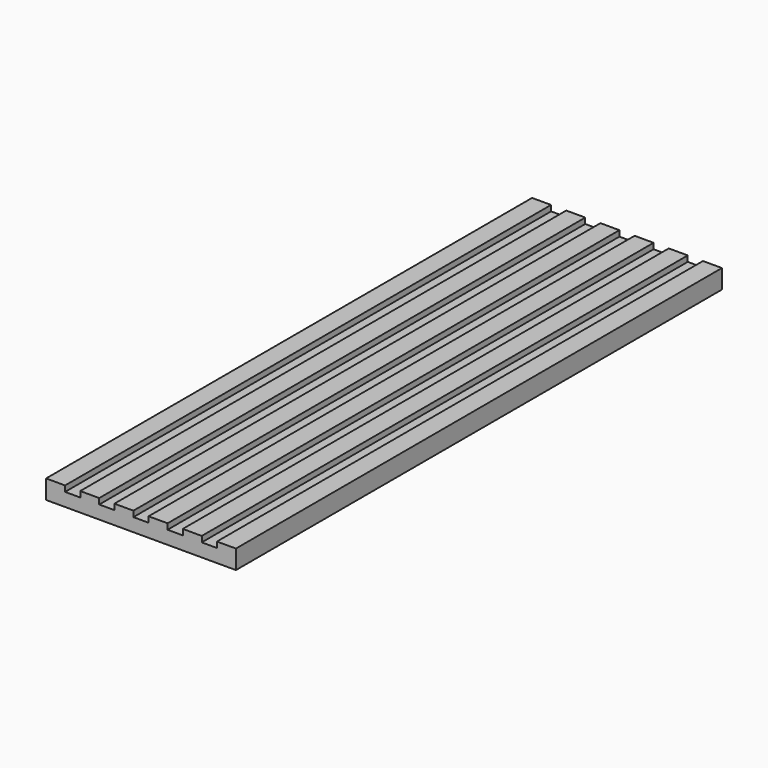
from build123d import *

# Parameters (mm, degrees)
F1_DEPTH = 320


with BuildPart() as f1:
    # F0 (on Front) → F1 (new body)
    with BuildSketch(Plane.XZ):
        Polygon((-40, 0), (-50, 0), (-50, -10), (50, -10), (50, 0), (40, 0), (40, -3), (32, -3), (32, 0), (22, 0), (22, -3), (14, -3), (14, 0), (4, 0), (4, -3), (-4, -3), (-4, 0), (-14, 0), (-14, -3), (-22, -3), (-22, 0), (-32, 0), (-32, -3), (-40, -3), align=None)
    extrude(amount=F1_DEPTH)


solid = f1.part
